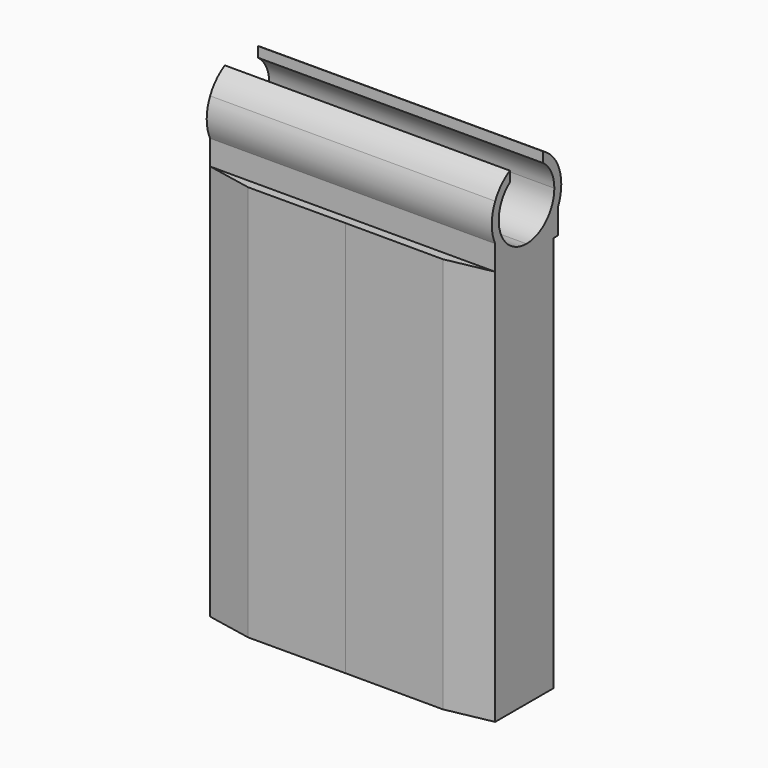
from build123d import *

# Parameters (mm, degrees)
F1_DEPTH = 114
F3_DEPTH = 82


with BuildPart() as f1:
    # F0 (on Top) → F1 (new body)
    with BuildSketch(Plane.XY):
        Polygon((-56.6203880661, 9.7190998064), (25.3796119339, 9.7190998064), (12.379645281, 12.2834371362), (-15.6203880661, 12.22001634), (-43.6204214132, 12.2834371362), align=None)
        Polygon((-15.6203880661, -0.7809001936), (25.3796119339, -0.7809001936), (25.3796119339, 9.7190998064), (-56.6203880661, 9.7190998064), (-56.6203880661, -0.7809001936), align=None)
        Polygon((25.3796119339, -11.2809001936), (25.3796119339, -0.7809001936), (-15.6203880661, -0.7809001936), (-56.6203880661, -0.7809001936), (-56.6203880661, -11.2809001936), align=None)
        Polygon((12.379645281, -13.8452375234), (25.3796119339, -11.2809001936), (-56.6203880661, -11.2809001936), (-43.6204214132, -13.8452375234), (-15.6203880661, -13.7818167272), align=None)
    extrude(amount=F1_DEPTH)

    # F2 (on face) → F3 (join)
    with BuildSketch(Plane.YZ.offset(25.3796119339)):
        with BuildLine():
            ThreePointArc((-11.2809001936, 131.8843561195), (-12.5, 126.5), (-11.2809001936, 121.1156438805))
            Line((-11.2809001936, 121.1156438805), (-11.2809001936, 131.8843561195))
        make_face()
        with BuildLine():
            Line((-11.2809001936, 114), (0, 114))
            ThreePointArc((0, 114), (-6.6687910638, 115.9275250888), (-11.2809001936, 121.1156438805))
            Line((-11.2809001936, 121.1156438805), (-11.2809001936, 114))
        make_face()
        with BuildLine():
            ThreePointArc((-11.2809001936, 121.1156438805), (-6.6687910638, 115.9275250888), (0, 114))
            Line((0, 114), (0, 116.5))
            ThreePointArc((0, 116.5), (-9.4868329805, 123.3377223398), (-6, 134.5))
            Line((-6, 134.5), (-6, 137.4658560997))
            ThreePointArc((-6, 137.4658560997), (-9.0799594373, 135.0909450363), (-11.2809001936, 131.8843561195))
            Line((-11.2809001936, 131.8843561195), (-11.2809001936, 121.1156438805))
        make_face()
        with BuildLine():
            Line((0, 116.5), (0, 114))
            ThreePointArc((0, 114), (6.6687910638, 115.9275250888), (11.2809001936, 121.1156438805))
            Line((11.2809001936, 121.1156438805), (11.2809001936, 131.8843561195))
            ThreePointArc((11.2809001936, 131.8843561195), (9.0799594373, 135.0909450363), (6, 137.4658560997))
            Line((6, 137.4658560997), (6, 134.5))
            ThreePointArc((6, 134.5), (8.94427191, 130.972135955), (10, 126.5))
            ThreePointArc((10, 126.5), (7.0710678119, 119.4289321881), (0, 116.5))
        make_face()
        with BuildLine():
            ThreePointArc((11.2809001936, 121.1156438805), (6.6687910638, 115.9275250888), (0, 114))
            Line((0, 114), (9.7190998064, 114))
            Line((9.7190998064, 114), (11.2809001936, 114))
            Line((11.2809001936, 114), (11.2809001936, 121.1156438805))
        make_face()
        with BuildLine():
            Line((11.2809001936, 131.8843561195), (11.2809001936, 121.1156438805))
            ThreePointArc((11.2809001936, 121.1156438805), (12.1914160872, 123.7396786799), (12.5, 126.5))
            ThreePointArc((12.5, 126.5), (12.1914160872, 129.2603213201), (11.2809001936, 131.8843561195))
        make_face()
    extrude(amount=-F3_DEPTH)


solid = f1.part
